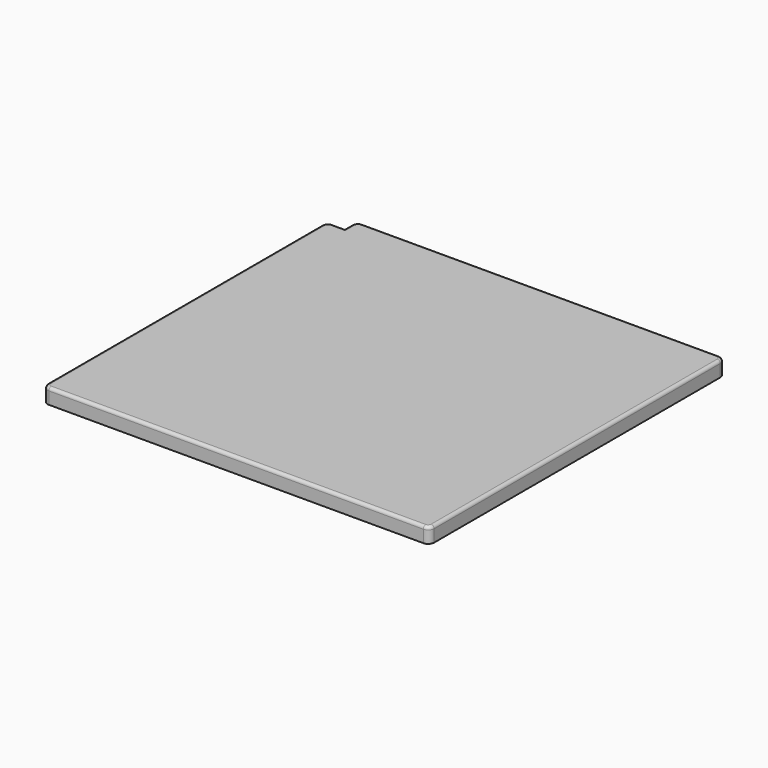
from build123d import *

# Parameters (mm, degrees)
F1_DEPTH = 25.4
F2_R     = 5


with BuildPart() as f1:
    # F0 (on Top) → F1 (new body)
    with BuildSketch(Plane.XY):
        with BuildLine():
            Line((311.5, 307.5), (-281.5, 307.5))
            ThreePointArc((-281.5, 307.5), (-288.571068, 304.571068), (-291.5, 297.5))
            Line((-291.5, 297.5), (-291.5, 282.5))
            Line((-291.5, 282.5), (-311.5, 282.5))
            ThreePointArc((-311.5, 282.5), (-318.571068, 279.571068), (-321.5, 272.5))
            Line((-321.5, 272.5), (-321.5, -297.5))
            ThreePointArc((-321.5, -297.5), (-318.571068, -304.571068), (-311.5, -307.5))
            Line((-311.5, -307.5), (311.5, -307.5))
            ThreePointArc((311.5, -307.5), (318.571068, -304.571068), (321.5, -297.5))
            Line((321.5, -297.5), (321.5, 297.5))
            ThreePointArc((321.5, 297.5), (318.571068, 304.571068), (311.5, 307.5))
        make_face()
    extrude(amount=F1_DEPTH)

    # F2
    f2_edges = [f1.edges().sort_by_distance(p)[0] for p in [
        (-321.5, -12.5, 25.4),
    ]]
    fillet(f2_edges, radius=F2_R)


solid = f1.part
